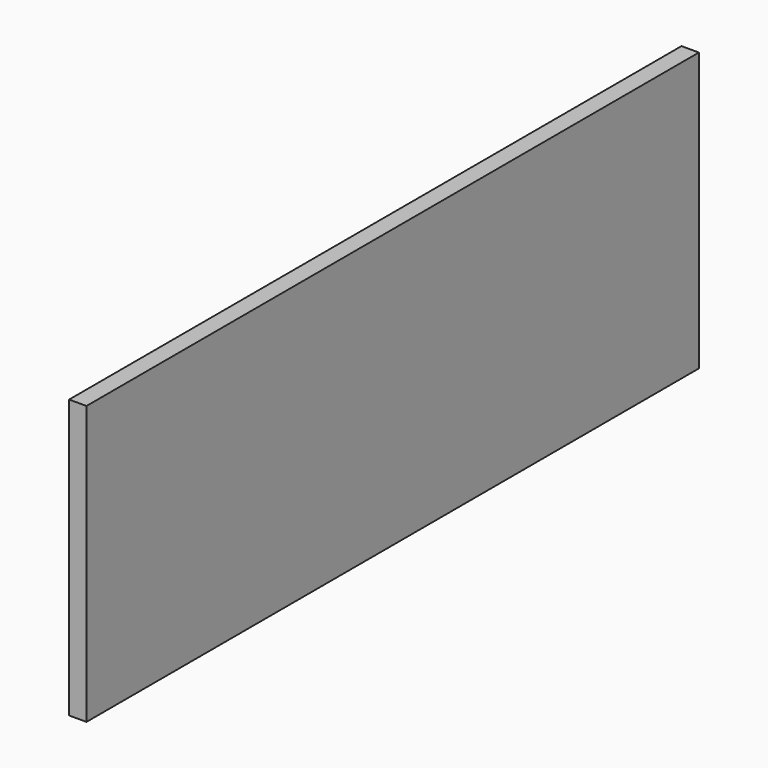
from build123d import *

# Parameters (mm, degrees)
F0_W     = 209.70875
F0_H     = 76.2
F1_DEPTH = 4.7625
F2_DEPTH = 4.7625


with BuildPart() as f1:
    # F0 (on Right) → F1 (new body)
    with BuildSketch(Plane.YZ):
        with Locations((-13.024881, -46.767362)):
            Rectangle(F0_W, F0_H)
    extrude(amount=F1_DEPTH)


with BuildPart() as f2:
    # F0 (on Right) → F2 (new body)
    with BuildSketch(Plane.YZ):
        with Locations((-13.024881, -46.767362)):
            Rectangle(F0_W, F0_H)
    extrude(amount=F2_DEPTH)


solid = Compound([f1.part, f2.part])
